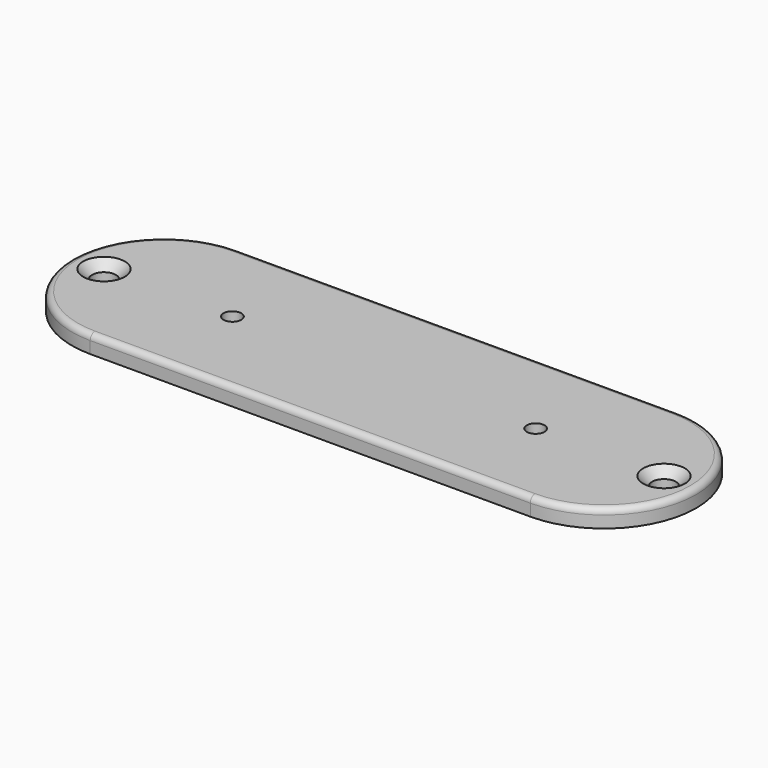
from build123d import *

# Parameters (mm, degrees)
F0_R     = 2
F0_R_2   = 1.5
F1_DEPTH = 3
F2_R     = 1
F3_SIZE  = 1.5


with BuildPart() as f1:
    # F0 (on Top) → F1 (new body)
    with BuildSketch(Plane.XY):
        with BuildLine():
            ThreePointArc((37.000001, -15.5), (52.500001, 0), (37.000001, 15.5))
            Line((37.000001, 15.5), (-37.000001, 15.5))
            ThreePointArc((-37.000001, 15.5), (-52.500001, 0), (-37.000001, -15.5))
            Line((-37.000001, -15.5), (37.000001, -15.5))
        make_face()
        with Locations((-47.090001, 0)):
            Circle(F0_R, mode=Mode.SUBTRACT)
        with Locations((-25.500001, 0)):
            Circle(F0_R_2, mode=Mode.SUBTRACT)
        with Locations((25.500001, 0)):
            Circle(F0_R_2, mode=Mode.SUBTRACT)
        with Locations((47.090001, 0)):
            Circle(F0_R, mode=Mode.SUBTRACT)
    extrude(amount=F1_DEPTH)

    # F2
    f2_edges = [f1.edges().sort_by_distance(p)[0] for p in [
        (52.500001, 0, 3),
    ]]
    fillet(f2_edges, radius=F2_R)

    # F3
    f3_edges = [f1.edges().sort_by_distance(p)[0] for p in [
        (45.090001, 0, 3),
        (-49.090001, 0, 3),
    ]]
    chamfer(f3_edges, length=F3_SIZE)


solid = f1.part
